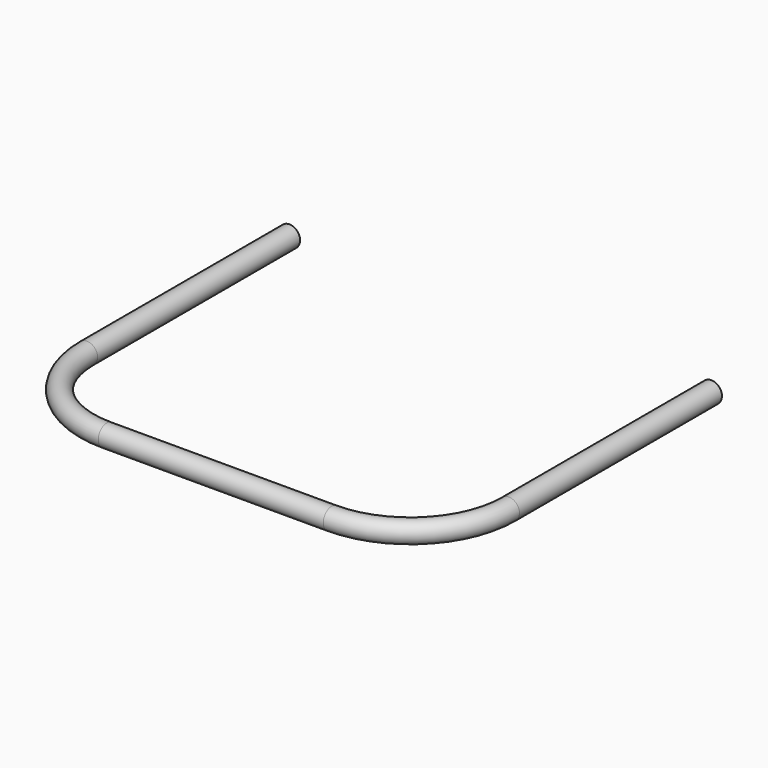
from build123d import *

# Parameters (mm, degrees)
F2_R = 19.05
F4_T = -2.54


with BuildPart() as f3:
    # F3: sweep along a path in F0
    with BuildLine(Plane.XY) as f3_path:
        Line((-381, 635), (-381, 177.8))
        ThreePointArc((-381, 177.8), (-328.923585695, 52.076414305), (-203.2, 0))
        Line((-203.2, 0), (203.2, 0))
        ThreePointArc((203.2, 0), (328.923585695, 52.076414305), (381, 177.8))
        Line((381, 177.8), (381, 635))
    # F2 (on line) → F3 (sweep)
    with BuildSketch(Plane.XZ.offset(-635)):
        with Locations((-381, 0)):
            Circle(F2_R)
    sweep(path=f3_path.line)

    # F4
    f4_openings = [f3.faces().sort_by_distance(p)[0] for p in [
        (381, 635, 0),
        (-381, 635, 0),
    ]]
    offset(amount=F4_T, openings=f4_openings)


solid = f3.part
